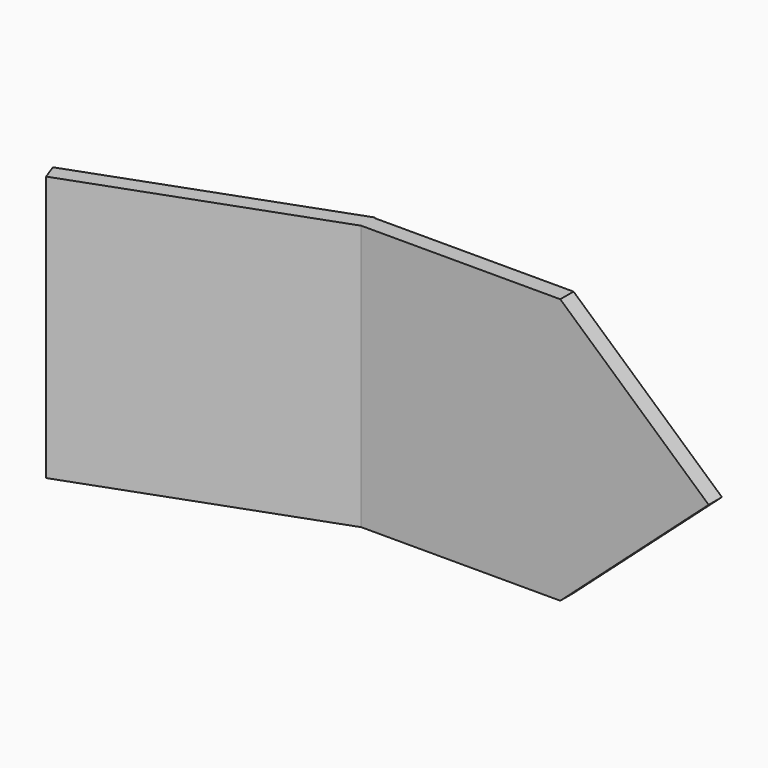
from build123d import *

# Parameters (mm, degrees)
F1_DEPTH = 0.5
F3_W     = 8
F3_H     = 8
F4_DEPTH = 0.5


with BuildPart() as f1:
    # F0 (on Front) → F1 (new body)
    with BuildSketch(Plane.XZ):
        Polygon((6, 0), (0, 0), (0, -8), (6, -8), (10.472136, -4), align=None)
    extrude(amount=F1_DEPTH)

    # F3 (on face) → F4 (join)
    with BuildSketch(Plane(origin=(0.160697, -0.441511, 0), x_dir=(0.939693, 0.34202, 0), z_dir=(0.34202, -0.939693, 0))):
        with Locations((-4, -4)):
            Rectangle(F3_W, F3_H)
    extrude(amount=-F4_DEPTH)


solid = f1.part
